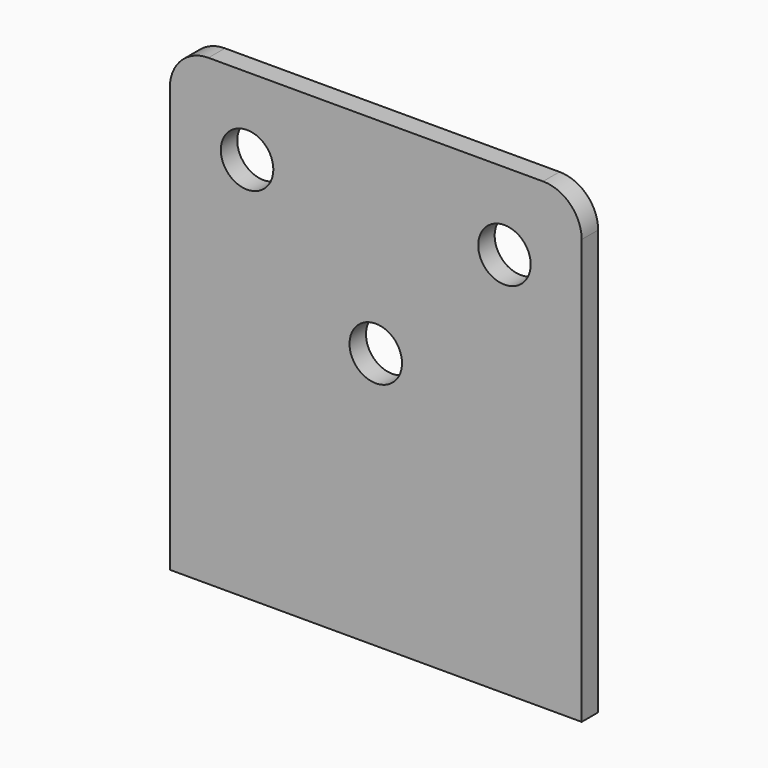
from build123d import *

# Parameters (mm, degrees)
F0_R     = 5.1
F1_DEPTH = 4


with BuildPart() as f1:
    # F0 (on Front) → F1 (new body)
    with BuildSketch(Plane.XZ):
        with BuildLine():
            ThreePointArc((40, 37.5), (37.803301, 42.803301), (32.5, 45))
            Line((32.5, 45), (-32.5, 45))
            ThreePointArc((-32.5, 45), (-37.803301, 42.803301), (-40, 37.5))
            Line((-40, 37.5), (-40, -45))
            Line((-40, -45), (40, -45))
            Line((40, -45), (40, 37.5))
        make_face()
        with Locations((-25, 30)):
            Circle(F0_R, mode=Mode.SUBTRACT)
        with Locations((0, 5)):
            Circle(F0_R, mode=Mode.SUBTRACT)
        with Locations((25, 30)):
            Circle(F0_R, mode=Mode.SUBTRACT)
    extrude(amount=F1_DEPTH)


solid = f1.part
